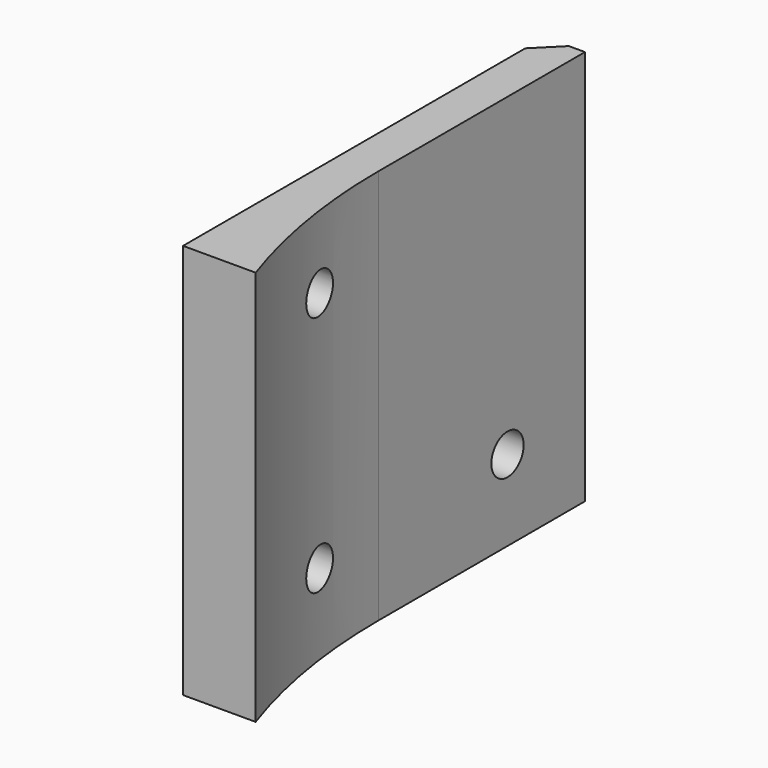
from build123d import *

# Parameters (mm, degrees)
BOX750_W           = 148
BOX750_H           = 74
BOX750_DEPTH       = 55
CYLINDER1790_R     = 74
CYLINDER1790_DEPTH = 60
CYLINDER1795_R     = 2.5
CYLINDER1795_DEPTH = 40
CYLINDER1791_R     = 2.5
CYLINDER1791_DEPTH = 40
CYLINDER1794_R     = 2.5
CYLINDER1794_DEPTH = 40
BOX755_W           = 10
BOX755_H           = 56
BOX755_DEPTH       = 49
CHAMFER061_SIZE    = 3


with BuildPart() as krychle750:
    # Box750 → Box750 (new body)
    with BuildSketch(Plane(origin=(-74, 0, 29), x_dir=(1, 0, 0), z_dir=(0, 0, 1))):
        with Locations((74, 37)):
            Rectangle(BOX750_W, BOX750_H)
    extrude(amount=BOX750_DEPTH)


with BuildPart() as obj1:
    # Cylinder1790 → Cylinder1790 (new body)
    with BuildSketch(Plane.XY.offset(26)):
        Circle(CYLINDER1790_R)
    extrude(amount=CYLINDER1790_DEPTH)


with BuildPart() as obj2:
    # Cylinder1795 → Cylinder1795 (new body)
    with BuildSketch(Plane(origin=(-86, 20, 39), x_dir=(0, 0, -1), z_dir=(1, 0, 0))):
        Circle(CYLINDER1795_R)
    extrude(amount=CYLINDER1795_DEPTH)


with BuildPart() as obj3:
    # Cylinder1791 → Cylinder1791 (new body)
    with BuildSketch(Plane(origin=(-86, -10, 69), x_dir=(0, 0, -1), z_dir=(1, 0, 0))):
        Circle(CYLINDER1791_R)
    extrude(amount=CYLINDER1791_DEPTH)


with BuildPart() as compound910:
    # Cylinder1794 → Cylinder1794 (new body)
    with BuildSketch(Plane(origin=(-86, -10, 39), x_dir=(0, 0, -1), z_dir=(1, 0, 0))):
        Circle(CYLINDER1794_R)
    extrude(amount=CYLINDER1794_DEPTH)

    # Compound910: union obj2, obj3
    add(obj2.part)
    add(obj3.part)


with BuildPart() as cut551:
    # Box755 → Box755 (new body)
    with BuildSketch(Plane(origin=(-79, -24, 29), x_dir=(1, 0, 0), z_dir=(0, 0, 1))):
        with Locations((5, 28)):
            Rectangle(BOX755_W, BOX755_H)
    extrude(amount=BOX755_DEPTH)

    # Chamfer061
    chamfer061_edges = [cut551.edges().sort_by_distance(p)[0] for p in [
        (-79, 32, 53.5),
    ]]
    chamfer(chamfer061_edges, length=CHAMFER061_SIZE)

    # Cut549: cut Compound910
    add(compound910.part, mode=Mode.SUBTRACT)

    # Cut550: cut obj1
    add(obj1.part, mode=Mode.SUBTRACT)

    # Cut551: cut Krychle750
    add(krychle750.part, mode=Mode.SUBTRACT)


solid = cut551.part
